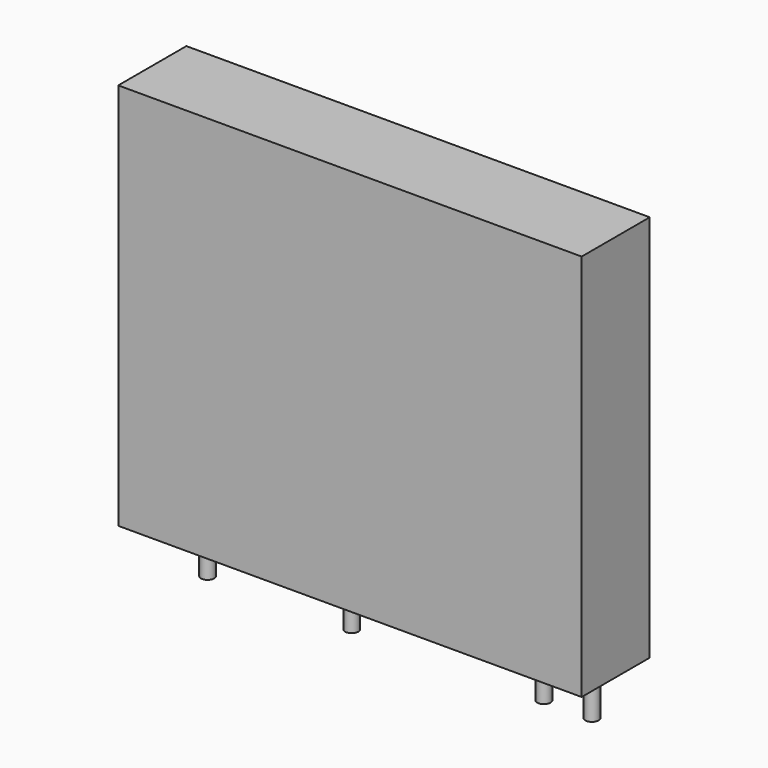
from build123d import *

# Parameters (mm, degrees)
F0_W     = 24.5
F0_H     = 4.5
F1_DEPTH = 20.5
F2_R     = 0.35
F3_DEPTH = 3


with BuildPart() as f1:
    # F0 (on Top) → F1 (new body)
    with BuildSketch(Plane.XY):
        Rectangle(F0_W, F0_H)
    extrude(amount=F1_DEPTH)

    # F2 (on Top) → F3 (join)
    with BuildSketch(Plane.XY):
        with Locations((-10.1655, 1.05)):
            Circle(F2_R)
        with Locations((-2.5455, 1.05)):
            Circle(F2_R)
        with Locations((7.6145, 1.05)):
            Circle(F2_R)
        with Locations((10.1545, 1.05)):
            Circle(F2_R)
    extrude(amount=-F3_DEPTH)


solid = f1.part
